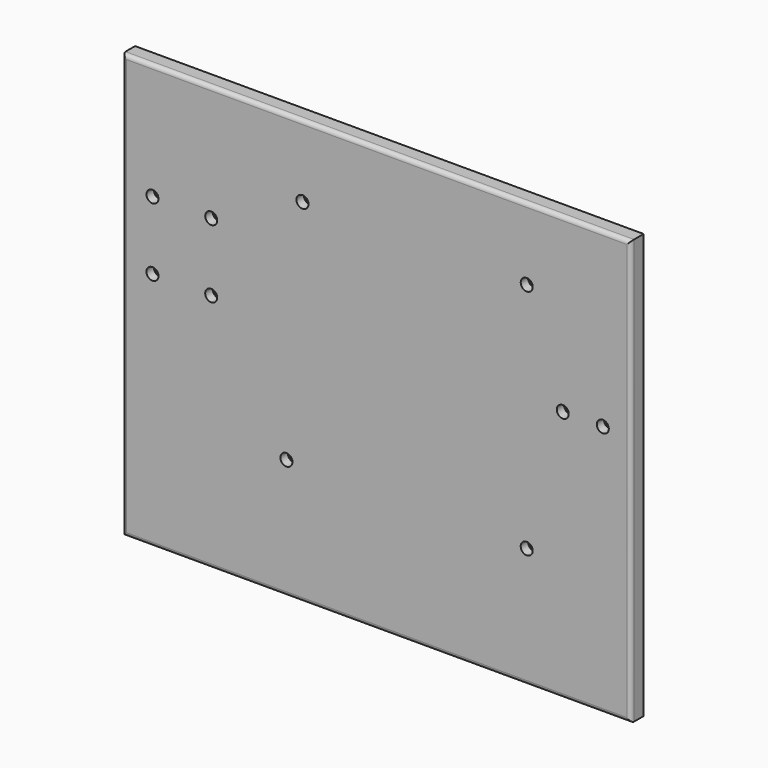
from build123d import *

# Parameters (mm, degrees)
F0_W     = 127
F0_H     = 106
F0_R     = 1.5
F1_DEPTH = 4
F2_R     = 1
F3_R     = 3
F3_R_2   = 1.5
F4_DEPTH = 1.7


with BuildPart() as f1:
    # F0 (on Front) → F1 (new body)
    with BuildSketch(Plane.XZ):
        with Locations((1, 0)):
            Rectangle(F0_W, F0_H)
        with Locations((-21.5, -23)):
            Circle(F0_R, mode=Mode.SUBTRACT)
        with Locations((38.5, -23)):
            Circle(F0_R, mode=Mode.SUBTRACT)
        with Locations((-54.956626, 7)):
            Circle(F0_R, mode=Mode.SUBTRACT)
        with Locations((-40.28926, 7)):
            Circle(F0_R, mode=Mode.SUBTRACT)
        with Locations((-54.956626, 24)):
            Circle(F0_R, mode=Mode.SUBTRACT)
        with Locations((-40.28926, 24)):
            Circle(F0_R, mode=Mode.SUBTRACT)
        with Locations((-17.5, 35)):
            Circle(F0_R, mode=Mode.SUBTRACT)
        with Locations((47.5, 10)):
            Circle(F0_R, mode=Mode.SUBTRACT)
        with Locations((57.5, 10)):
            Circle(F0_R, mode=Mode.SUBTRACT)
        with Locations((38.5, 35)):
            Circle(F0_R, mode=Mode.SUBTRACT)
    extrude(amount=F1_DEPTH)

    # F2
    f2_edges = [f1.edges().sort_by_distance(p)[0] for p in [
        (1, -4, 53),
        (-62.5, -4, 0),
        (64.5, -4, 0),
        (1, -4, -53),
    ]]
    fillet(f2_edges, radius=F2_R)

    # F3 (on face) → F4 (cut)
    with BuildSketch(Plane(origin=(0, 0, 0), x_dir=(-1, 0, 0), z_dir=(0, 1, 0))):
        with Locations((-38.5, -23)):
            Circle(F3_R)
        with Locations((-38.5, -23)):
            Circle(F3_R_2, mode=Mode.SUBTRACT)
        with Locations((-57.5, 10)):
            Circle(F3_R)
        with Locations((-57.5, 10)):
            Circle(F3_R_2, mode=Mode.SUBTRACT)
        with Locations((-47.5, 10)):
            Circle(F3_R)
        with Locations((-47.5, 10)):
            Circle(F3_R_2, mode=Mode.SUBTRACT)
        with Locations((-38.5, 35)):
            Circle(F3_R)
        with Locations((-38.5, 35)):
            Circle(F3_R_2, mode=Mode.SUBTRACT)
        with Locations((17.5, 35)):
            Circle(F3_R)
        with Locations((17.5, 35)):
            Circle(F3_R_2, mode=Mode.SUBTRACT)
        with Locations((40.28926, 24)):
            Circle(F3_R)
        with Locations((40.28926, 24)):
            Circle(F3_R_2, mode=Mode.SUBTRACT)
        with Locations((54.956626, 24)):
            Circle(F3_R)
        with Locations((54.956626, 24)):
            Circle(F3_R_2, mode=Mode.SUBTRACT)
        with Locations((54.956626, 7)):
            Circle(F3_R)
        with Locations((54.956626, 7)):
            Circle(F3_R_2, mode=Mode.SUBTRACT)
        with Locations((40.28926, 7)):
            Circle(F3_R)
        with Locations((40.28926, 7)):
            Circle(F3_R_2, mode=Mode.SUBTRACT)
        with Locations((21.5, -23)):
            Circle(F3_R)
        with Locations((21.5, -23)):
            Circle(F3_R_2, mode=Mode.SUBTRACT)
    extrude(amount=-F4_DEPTH, mode=Mode.SUBTRACT)


solid = f1.part
